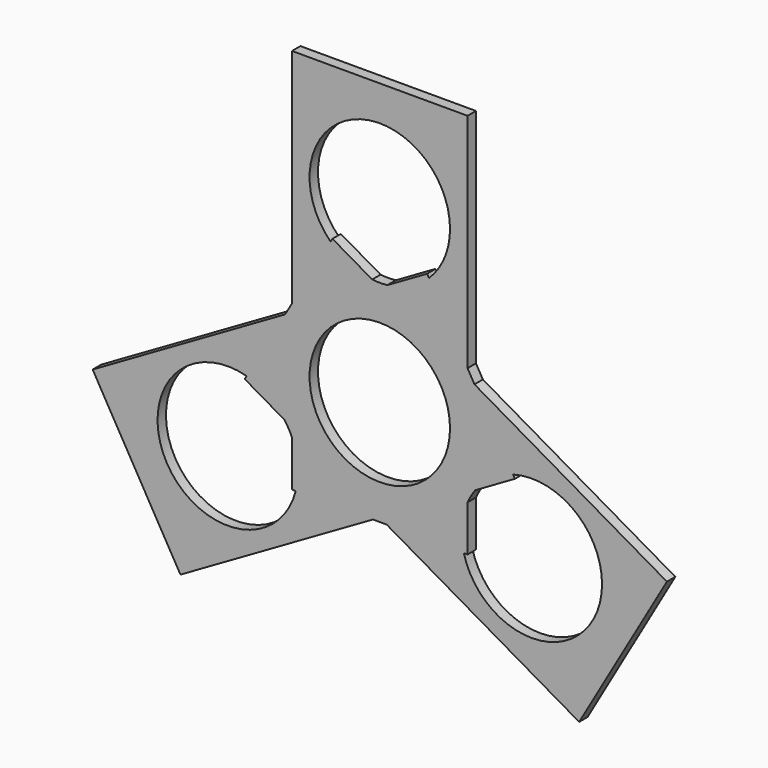
from build123d import *

# Parameters (mm, degrees)
F0_R     = 20
F1_DEPTH = 3


with BuildPart() as f1:
    # F0 (on Front) → F1 (new body)
    with BuildSketch(Plane.XZ):
        with BuildLine():
            ThreePointArc((-39.2839784876, -3.7990042795), (-32.8873709815, -1.9913052768), (-27.4364980034, 1.8129485328))
            Line((-27.4364980034, 1.8129485328), (-27.9683212743, 2.7340934586))
            Line((-27.9683212743, 2.7340934586), (-39.2839784876, -3.7990042795))
        make_face()
        with BuildLine():
            Line((-2.9683212743, -40.5671767306), (-3.5001445452, -39.6460318047))
            ThreePointArc((-3.5001445452, -39.6460318047), (-9.5201614758, -42.4644993718), (-14.2839784876, -47.1002744687))
            Line((-14.2839784876, -47.1002744687), (-2.9683212743, -40.5671767306))
        make_face()
        with BuildLine():
            Line((-16.4490833879, -17.2178118252), (-27.4364980034, 1.8129485328))
            ThreePointArc((-27.4364980034, 1.8129485328), (-32.8873709815, -1.9913052768), (-39.2839784876, -3.7990042795))
            Line((-39.2839784876, -3.7990042795), (-41.4490833879, -5.0490281765))
            Line((-41.4490833879, -5.0490281765), (-16.4490833879, -19.4827849062))
            Line((-16.4490833879, -19.4827849062), (-16.4490833879, -17.2178118252))
        make_face()
        with BuildLine():
            Line((-16.4490833879, -50.8503461597), (-16.4490833879, -48.3502983657))
            Line((-16.4490833879, -48.3502983657), (-41.4490833879, -62.7840550955))
            Line((-41.4490833879, -62.7840550955), (-39.4875591608, -63.916541636))
            Line((-39.4875591608, -63.916541636), (-17.5127299297, -63.916541636))
            ThreePointArc((-17.5127299297, -63.916541636), (-18.0818738821, -57.2938202594), (-16.4490833879, -50.8503461597))
        make_face()
        with BuildLine():
            Line((-14.2839784876, -47.1002744687), (-16.4490833879, -48.3502983657))
            Line((-16.4490833879, -48.3502983657), (-16.4490833879, -50.8503461597))
            ThreePointArc((-16.4490833879, -50.8503461597), (-15.4683212743, -48.916541636), (-14.2839784876, -47.1002744687))
        make_face()
        with BuildLine():
            Line((-14.4875591608, -20.6152714468), (-16.4490833879, -19.4827849062))
            Line((-16.4490833879, -19.4827849062), (-16.4490833879, -48.3502983657))
            Line((-16.4490833879, -48.3502983657), (-14.2839784876, -47.1002744687))
            ThreePointArc((-14.2839784876, -47.1002744687), (-9.5201614758, -42.4644993718), (-3.5001445452, -39.6460318047))
            Line((-3.5001445452, -39.6460318047), (-14.4875591608, -20.6152714468))
        make_face()
        with BuildLine():
            Line((-16.4490833879, -63.916541636), (-16.4490833879, -50.8503461597))
            ThreePointArc((-16.4490833879, -50.8503461597), (-18.0818738821, -57.2938202594), (-17.5127299297, -63.916541636))
            Line((-17.5127299297, -63.916541636), (-16.4490833879, -63.916541636))
        make_face()
        Polygon((-14.4875591608, -20.6152714468), (-16.4490833879, -17.2178118252), (-16.4490833879, -19.4827849062), align=None)
        with BuildLine():
            ThreePointArc((-55.4616687723, 1.8129485328), (-49.186921985, 34.5259596544), (-21.4490833879, 16.083458364))
            ThreePointArc((-21.4490833879, 16.083458364), (-23.0065820975, 8.3456197669), (-27.4364980034, 1.8129485328))
            Line((-27.4364980034, 1.8129485328), (-16.4490833879, -17.2178118252))
            Line((-16.4490833879, -17.2178118252), (-16.4490833879, 46.083458364))
            Line((-16.4490833879, 46.083458364), (-66.4490833879, 46.083458364))
            Line((-66.4490833879, 46.083458364), (-66.4490833879, -17.2178118252))
            Line((-66.4490833879, -17.2178118252), (-55.4616687723, 1.8129485328))
        make_face()
        with BuildLine():
            Line((-79.3980222305, -39.6460318047), (-68.4106076149, -20.6152714468))
            Line((-68.4106076149, -20.6152714468), (-123.2311156906, -52.2659065414))
            Line((-123.2311156906, -52.2659065414), (-98.2311156906, -95.5671767306))
            Line((-98.2311156906, -95.5671767306), (-43.4106076149, -63.916541636))
            Line((-43.4106076149, -63.916541636), (-65.385436846, -63.916541636))
            ThreePointArc((-65.385436846, -63.916541636), (-102.0708616528, -68.916541636), (-79.3980222305, -39.6460318047))
        make_face()
        with BuildLine():
            Line((40.3329489149, -52.2659065414), (-14.4875591608, -20.6152714468))
            Line((-14.4875591608, -20.6152714468), (-3.5001445452, -39.6460318047))
            ThreePointArc((-3.5001445452, -39.6460318047), (13.9549421296, -42.9941261953), (21.8521868014, -58.916541636))
            ThreePointArc((21.8521868014, -58.916541636), (4.372272651, -78.7571355613), (-17.5127299297, -63.916541636))
            Line((-17.5127299297, -63.916541636), (-39.4875591608, -63.916541636))
            Line((-39.4875591608, -63.916541636), (15.3329489149, -95.5671767306))
            Line((15.3329489149, -95.5671767306), (40.3329489149, -52.2659065414))
        make_face()
        with BuildLine():
            Line((-41.4490833879, -62.7840550955), (-66.4490833879, -48.3502983657))
            Line((-66.4490833879, -48.3502983657), (-66.4490833879, -50.8503461597))
            ThreePointArc((-66.4490833879, -50.8503461597), (-65.1796432708, -54.7949766289), (-64.7503535771, -58.916541636))
            ThreePointArc((-64.7503535771, -58.916541636), (-64.9097596517, -61.4366274856), (-65.385436846, -63.916541636))
            Line((-65.385436846, -63.916541636), (-43.4106076149, -63.916541636))
            Line((-43.4106076149, -63.916541636), (-41.4490833879, -62.7840550955))
        make_face()
        with BuildLine():
            Line((-66.4490833879, -48.3502983657), (-66.4490833879, -19.4827849062))
            Line((-66.4490833879, -19.4827849062), (-68.4106076149, -20.6152714468))
            Line((-68.4106076149, -20.6152714468), (-79.3980222305, -39.6460318047))
            ThreePointArc((-79.3980222305, -39.6460318047), (-73.3780052999, -42.4644993718), (-68.6141882881, -47.1002744687))
            Line((-68.6141882881, -47.1002744687), (-66.4490833879, -48.3502983657))
        make_face()
        with BuildLine():
            ThreePointArc((-43.6141882881, -3.7990042795), (-50.0107957942, -1.9913052768), (-55.4616687723, 1.8129485328))
            Line((-55.4616687723, 1.8129485328), (-66.4490833879, -17.2178118252))
            Line((-66.4490833879, -17.2178118252), (-66.4490833879, -19.4827849062))
            Line((-66.4490833879, -19.4827849062), (-41.4490833879, -5.0490281765))
            Line((-41.4490833879, -5.0490281765), (-43.6141882881, -3.7990042795))
        make_face()
        Polygon((-16.4490833879, -19.4827849062), (-41.4490833879, -5.0490281765), (-66.4490833879, -19.4827849062), (-66.4490833879, -48.3502983657), (-41.4490833879, -62.7840550955), (-16.4490833879, -48.3502983657), align=None)
        with Locations((-41.4490833879, -33.916541636)):
            Circle(F0_R, mode=Mode.SUBTRACT)
        with BuildLine():
            ThreePointArc((-64.7503535771, -58.916541636), (-65.1796432708, -54.7949766289), (-66.4490833879, -50.8503461597))
            Line((-66.4490833879, -50.8503461597), (-66.4490833879, -63.916541636))
            Line((-66.4490833879, -63.916541636), (-65.385436846, -63.916541636))
            ThreePointArc((-65.385436846, -63.916541636), (-64.9097596517, -61.4366274856), (-64.7503535771, -58.916541636))
        make_face()
        Polygon((-39.4875591608, -63.916541636), (-41.4490833879, -62.7840550955), (-43.4106076149, -63.916541636), align=None)
        Polygon((-66.4490833879, -19.4827849062), (-66.4490833879, -17.2178118252), (-68.4106076149, -20.6152714468), align=None)
        with BuildLine():
            ThreePointArc((-68.6141882881, -47.1002744687), (-73.3780052999, -42.4644993718), (-79.3980222305, -39.6460318047))
            Line((-79.3980222305, -39.6460318047), (-79.9298455014, -40.5671767306))
            Line((-79.9298455014, -40.5671767306), (-68.6141882881, -47.1002744687))
        make_face()
        with BuildLine():
            ThreePointArc((-39.2839784876, -3.7990042795), (-41.4490833879, -3.916541636), (-43.6141882881, -3.7990042795))
            Line((-43.6141882881, -3.7990042795), (-41.4490833879, -5.0490281765))
            Line((-41.4490833879, -5.0490281765), (-39.2839784876, -3.7990042795))
        make_face()
        with BuildLine():
            Line((-66.4490833879, -50.8503461597), (-66.4490833879, -48.3502983657))
            Line((-66.4490833879, -48.3502983657), (-68.6141882881, -47.1002744687))
            ThreePointArc((-68.6141882881, -47.1002744687), (-67.4298455014, -48.916541636), (-66.4490833879, -50.8503461597))
        make_face()
        with BuildLine():
            Line((-54.9298455014, 2.7340934586), (-55.4616687723, 1.8129485328))
            ThreePointArc((-55.4616687723, 1.8129485328), (-50.0107957942, -1.9913052768), (-43.6141882881, -3.7990042795))
            Line((-43.6141882881, -3.7990042795), (-54.9298455014, 2.7340934586))
        make_face()
    extrude(amount=F1_DEPTH)


solid = f1.part
